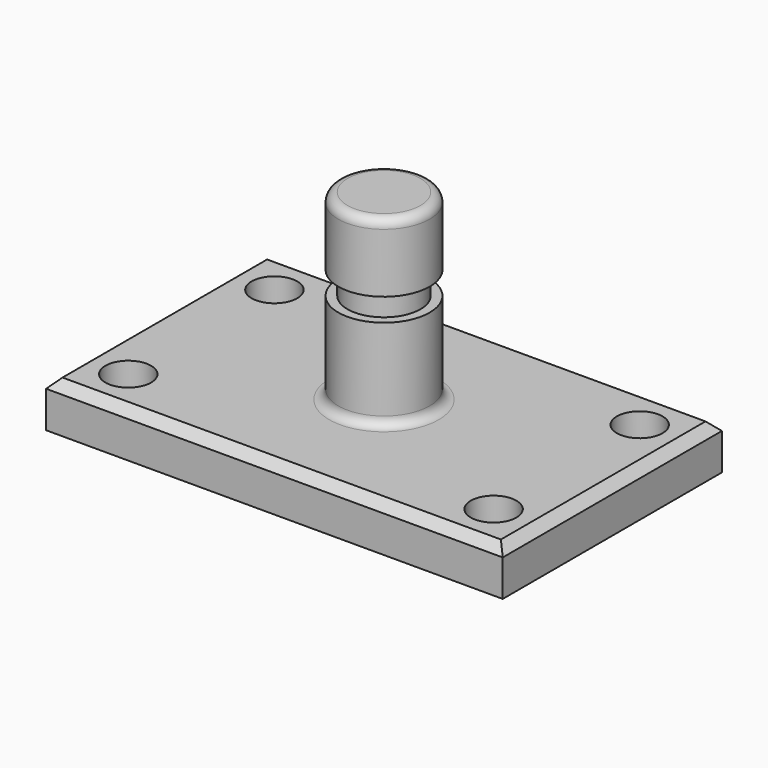
from build123d import *

# Parameters (mm, degrees)
F0_W     = 127
F0_H     = 76.2
F1_DEPTH = 12.7
F2_R     = 6.35
F3_DEPTH = 12.701
F4_W     = 12.7
F4_H     = 50.8
F6_W     = 15.515666
F6_H     = 6.35
F8_SIZE  = 2.54
F9_R     = 2.54


with BuildPart() as f1:
    # F0 (on Top) → F1 (new body)
    with BuildSketch(Plane.XY):
        Rectangle(F0_W, F0_H)
    extrude(amount=F1_DEPTH)

    # F2 (on face) → F3 (cut, through all)
    with BuildSketch(Plane.XY.offset(12.7)):
        with Locations((-50.8, -25.4)):
            Circle(F2_R)
        with Locations((50.8, 25.4)):
            Circle(F2_R)
        with Locations((50.8, -25.4)):
            Circle(F2_R)
        with Locations((-50.8, 25.4)):
            Circle(F2_R)
    extrude(amount=-F3_DEPTH, mode=Mode.SUBTRACT)

    # F4 (on Front) → F5 (revolve)
    with BuildSketch(Plane.XZ):
        with Locations((6.35, 38.1)):
            Rectangle(F4_W, F4_H)
    revolve(axis=Axis((0, 0, 38.1), (0, 0, 1)))

    # F6 (on Front) → F7 (revolve, cut)
    with BuildSketch(Plane.XZ):
        with Locations((17.917833, 41.275)):
            Rectangle(F6_W, F6_H)
    revolve(axis=Axis((0, 0, 12.7), (0, 0, 1)), mode=Mode.SUBTRACT)

    # F8
    f8_edges = [f1.edges().sort_by_distance(p)[0] for p in [
        (0, -38.1, 12.7),
        (63.5, 0, 12.7),
        (0, 38.1, 12.7),
        (-63.5, 0, 12.7),
    ]]
    chamfer(f8_edges, length=F8_SIZE)

    # F9
    f9_edges = [f1.edges().sort_by_distance(p)[0] for p in [
        (-12.7, 0, 12.7),
        (-12.7, 0, 63.5),
    ]]
    fillet(f9_edges, radius=F9_R)


solid = f1.part
